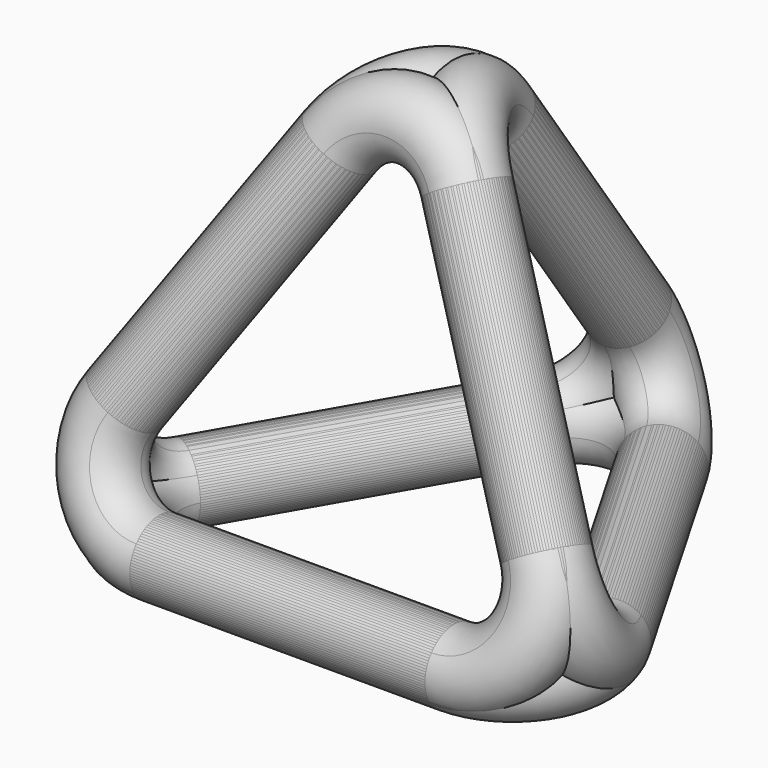
from build123d import *

# Parameters (mm, degrees)
F3_ANGLE = -70.529
F4_COUNT = 3


with BuildPart() as f2:
    # F2: sweep along a path in F0
    with BuildLine(Plane.XY) as f2_path:
        Line((0, -10.543637), (-8.071797, -10.543637))
        ThreePointArc((-8.071797, -10.543637), (-11.535898, -8.543637), (-11.535898, -4.543637))
        Line((-11.535898, -4.543637), (-3.464102, 9.437125))
        ThreePointArc((-3.464102, 9.437125), (0, 11.437125), (3.464102, 9.437125))
        Line((3.464102, 9.437125), (11.535898, -4.543637))
        ThreePointArc((11.535898, -4.543637), (11.535898, -8.543637), (8.071797, -10.543637))
        Line((8.071797, -10.543637), (0, -10.543637))
    # F1 (on Right) → F2 (sweep)
    with BuildSketch(Plane.YZ):
        with BuildLine():
            Line((-10.543637, 0), (-8.543637, 0))
            ThreePointArc((-8.543637, 0), (-8.910646, 1.154703), (-9.876976, 1.88562))
            Line((-9.876976, 1.88562), (-10.543637, 0))
        make_face()
        with BuildLine():
            ThreePointArc((-9.876976, 1.88562), (-12.176628, -1.154703), (-8.543637, 0))
            Line((-8.543637, 0), (-10.543637, 0))
            Line((-10.543637, 0), (-9.876976, 1.88562))
        make_face()
    sweep(path=f2_path.line)


with BuildPart() as f3_1:
    # F3: copy of F2
    add(f2.part.rotate(Axis((-4.035898, -10.543637, 0), (-1, 0, 0)), F3_ANGLE))


with BuildPart() as f4_1:
    # F4: instance of F3_1
    add(f3_1.part.rotate(Axis((0, -1.883383, 9.038624), (0, 0, 1)), 1 * 360 / F4_COUNT))


with BuildPart() as f4_2:
    # F4: instance of F3_1
    add(f3_1.part.rotate(Axis((0, -1.883383, 9.038624), (0, 0, 1)), 2 * 360 / F4_COUNT))


solid = Compound([f2.part, f3_1.part, f4_1.part, f4_2.part])
